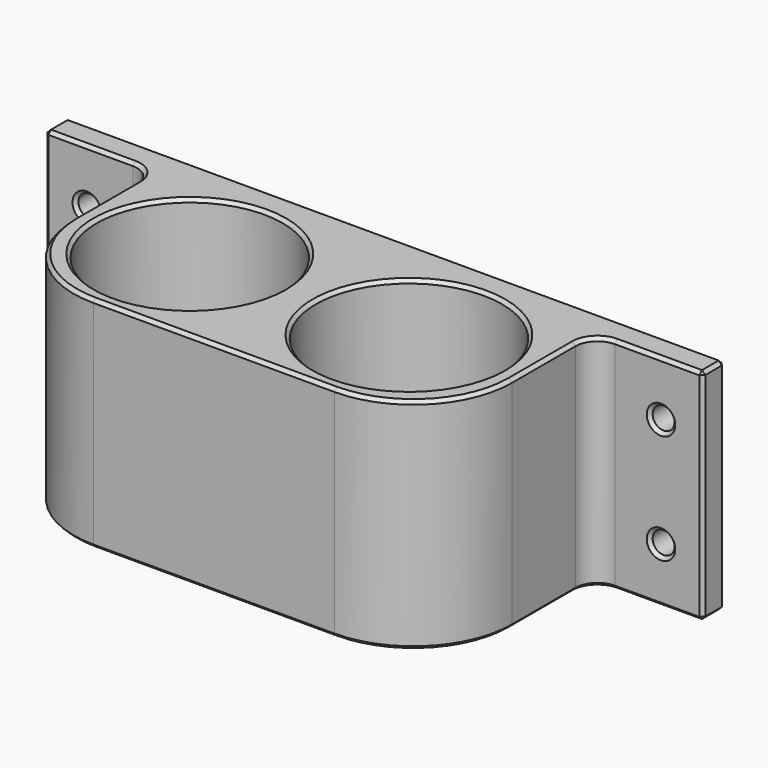
from build123d import *

# Parameters (mm, degrees)
F0_W     = 25.4
F0_H     = 50.8
F0_R     = 2.54
F0_W_2   = 50.8
F1_DEPTH = 6.35
F2_DEPTH = 52.705
F3_R     = 5.08
F4_R     = 21.59
F5_DEPTH = 50.801
F6_R     = 22.86
F7_SIZE  = 0.762


with BuildPart() as f1:
    # F0 (on Front) → F1 (new body)
    with BuildSketch(Plane.XZ):
        with Locations((12.7, 25.4)):
            Rectangle(F0_W, F0_H)
        with Locations((9.652, 12.7)):
            Circle(F0_R, mode=Mode.SUBTRACT)
        with Locations((9.652, 38.1)):
            Circle(F0_R, mode=Mode.SUBTRACT)
        with Locations((139.7, 25.4)):
            Rectangle(F0_W, F0_H)
        with Locations((142.748, 12.7)):
            Circle(F0_R, mode=Mode.SUBTRACT)
        with Locations((142.748, 38.1)):
            Circle(F0_R, mode=Mode.SUBTRACT)
        with Locations((50.8, 25.4)):
            Rectangle(F0_W_2, F0_H)
        with Locations((101.6, 25.4)):
            Rectangle(F0_W_2, F0_H)
    extrude(amount=F1_DEPTH)

    # F0 (on Front) → F2 (join)
    with BuildSketch(Plane.XZ):
        with Locations((50.8, 25.4)):
            Rectangle(F0_W_2, F0_H)
        with Locations((101.6, 25.4)):
            Rectangle(F0_W_2, F0_H)
    extrude(amount=F2_DEPTH)

    # F3
    f3_edges = [f1.edges().sort_by_distance(p)[0] for p in [
        (127, -6.35, 25.4),
        (25.4, -6.35, 25.4),
    ]]
    fillet(f3_edges, radius=F3_R)

    # F4 (on face) → F5 (cut, through all)
    with BuildSketch(Plane.XY.offset(50.8)):
        with Locations((50.8, -27.94)):
            Circle(F4_R)
        with Locations((101.6, -27.94)):
            Circle(F4_R)
    extrude(amount=-F5_DEPTH, mode=Mode.SUBTRACT)

    # F6
    f6_edges = [f1.edges().sort_by_distance(p)[0] for p in [
        (127, -52.705, 25.4),
        (25.4, -52.705, 25.4),
    ]]
    fillet(f6_edges, radius=F6_R)

    # F7
    f7_edges = [f1.edges().sort_by_distance(p)[0] for p in [
        (127, -20.6375, 50.8),
        (120.304461, -46.009461, 50.8),
        (128.487898, -7.837898, 50.8),
        (76.2, -52.705, 50.8),
        (142.24, -6.35, 50.8),
        (32.095539, -46.009461, 50.8),
        (152.4, -3.175, 50.8),
        (25.4, -20.6375, 50.8),
        (76.2, 0, 50.8),
        (23.912102, -7.837898, 50.8),
        (0, -3.175, 50.8),
        (10.16, -6.35, 50.8),
        (80.01, -27.94, 50.8),
        (29.21, -27.94, 50.8),
        (20.32, -6.35, 25.4),
        (0, -6.35, 25.4),
        (10.16, -6.35, 0),
        (7.112, -6.35, 12.7),
        (7.112, -6.35, 38.1),
        (132.08, -6.35, 25.4),
        (152.4, -6.35, 25.4),
        (142.24, -6.35, 0),
        (140.208, -6.35, 12.7),
        (140.208, -6.35, 38.1),
        (25.4, -20.6375, 0),
        (32.095539, -46.009461, 0),
        (23.912102, -7.837898, 0),
        (76.2, -52.705, 0),
        (120.304461, -46.009461, 0),
        (0, -3.175, 0),
        (127, -20.6375, 0),
        (76.2, 0, 0),
        (128.487898, -7.837898, 0),
        (152.4, -3.175, 0),
        (29.21, -27.94, 0),
        (80.01, -27.94, 0),
        (0, 0, 25.4),
        (152.4, 0, 25.4),
        (7.112, 0, 12.7),
        (7.112, 0, 38.1),
        (140.208, 0, 38.1),
        (140.208, 0, 12.7),
    ]]
    chamfer(f7_edges, length=F7_SIZE)


solid = f1.part
